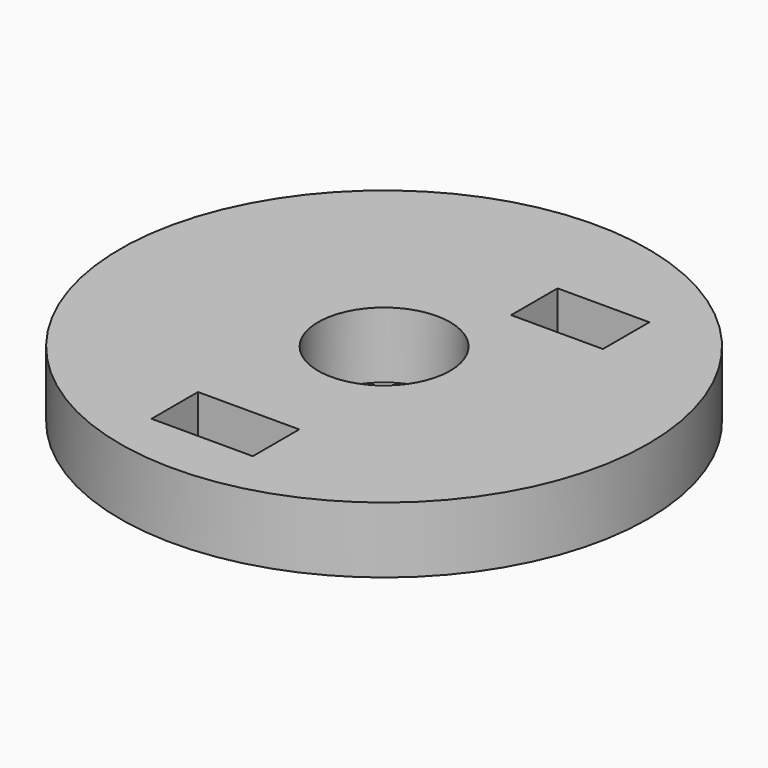
from build123d import *

# Parameters (mm, degrees)
F0_R     = 50.8
F0_W     = 19.494822
F0_H     = 11.168908
F0_R_2   = 12.7
F0_W_2   = 17.667183
F0_H_2   = 11.16891
F1_DEPTH = 6.35


with BuildPart() as f1:
    # F0 (on Top) → F1 (new body, symmetric)
    with BuildSketch(Plane.XY):
        Circle(F0_R)
        with Locations((-2.842995, -34.623617)):
            Rectangle(F0_W, F0_H, mode=Mode.SUBTRACT)
        Circle(F0_R_2, mode=Mode.SUBTRACT)
        with Locations((17.362575, 25.48542)):
            Rectangle(F0_W_2, F0_H_2, mode=Mode.SUBTRACT)
    extrude(amount=F1_DEPTH, both=True)


solid = f1.part
